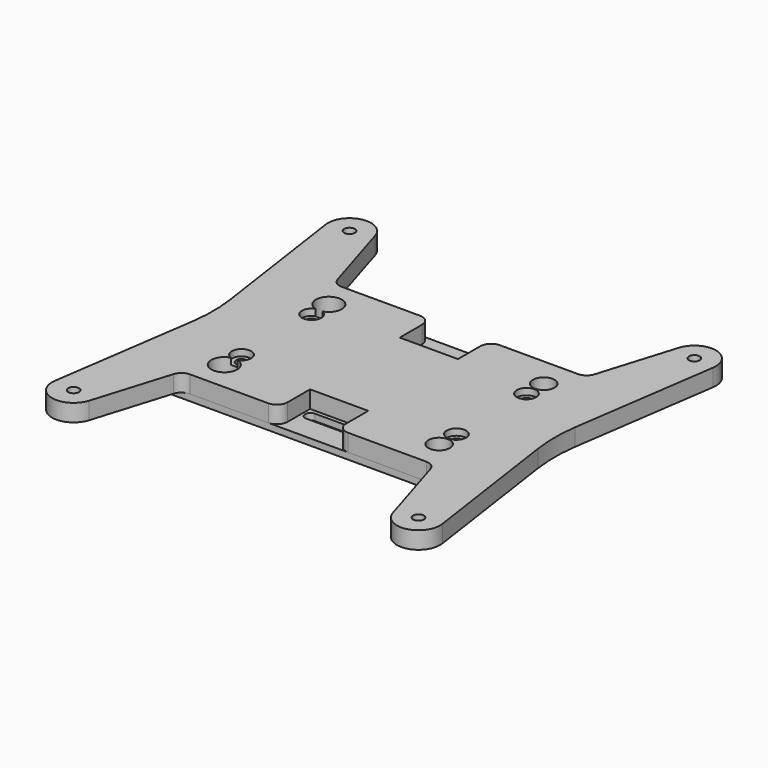
from build123d import *

# Parameters (mm, degrees)
F0_W     = 127.01
F0_H     = 88
F0_R     = 6
F0_R_2   = 2.5
F0_R_3   = 5
F1_DEPTH = 3
F2_R     = 2.5
F2_R_2   = 6
F2_R_3   = 5
F3_DEPTH = 8
F4_R     = 75
F5_R     = 5
F6_R     = 5
F7_R     = 4.5
F7_R_2   = 2.5
F8_DEPTH = 3


with BuildPart() as f1:
    # F0 (on Top) → F1 (new body)
    with BuildSketch(Plane.XY):
        with Locations((-29.180647, -13.047383)):
            Rectangle(F0_W, F0_H)
        with Locations((-79.025647, -43.367383)):
            Circle(F0_R, mode=Mode.SUBTRACT)
        with Locations((-79.025647, -33.367383)):
            Circle(F0_R_2, mode=Mode.SUBTRACT)
        with BuildLine():
            ThreePointArc((-39.022435, -45.867381), (-41.525647, -43.368989), (-39.025647, -40.867383))
            Line((-39.025647, -40.867383), (-19.325647, -40.867383))
            ThreePointArc((-19.325647, -40.867383), (-16.832098, -43.187909), (-18.967625, -45.841614))
            ThreePointArc((-18.967625, -45.841614), (-19.322435, -45.867381), (-19.67731, -45.842526))
            Line((-19.67731, -45.842526), (-39.022435, -45.867381))
        make_face(mode=Mode.SUBTRACT)
        with Locations((20.674353, -43.367383)):
            Circle(F0_R_3, mode=Mode.SUBTRACT)
        with Locations((20.674353, -33.367383)):
            Circle(F0_R_2, mode=Mode.SUBTRACT)
        with Locations((-79.025647, 7.282617)):
            Circle(F0_R_2, mode=Mode.SUBTRACT)
        with Locations((-79.025647, 17.282617)):
            Circle(F0_R, mode=Mode.SUBTRACT)
        with Locations((20.674353, 7.282617)):
            Circle(F0_R_2, mode=Mode.SUBTRACT)
        with BuildLine():
            ThreePointArc((-39.025647, 14.782617), (-41.525647, 17.282617), (-39.025647, 19.782617))
            Line((-39.025647, 19.782617), (-19.325647, 19.782617))
            ThreePointArc((-19.325647, 19.782617), (-16.825647, 17.282617), (-19.325647, 14.782617))
            Line((-19.325647, 14.782617), (-39.025647, 14.782617))
        make_face(mode=Mode.SUBTRACT)
        with Locations((20.674353, 17.282617)):
            Circle(F0_R_3, mode=Mode.SUBTRACT)
    extrude(amount=F1_DEPTH)


with BuildPart() as f3:
    # F2 (on face) → F3 (new body)
    with BuildSketch(Plane.XY.offset(3)):
        with BuildLine():
            Line((-92.685647, -57.047383), (-92.685647, 30.952617))
            Line((-92.685647, 30.952617), (-87.685647, 30.952617))
            Line((-87.685647, 30.952617), (-99.619784, 69.883471))
            ThreePointArc((-99.619784, 69.883471), (-111.369986, 76.710014), (-119.077159, 65.517676))
            Line((-119.077159, 65.517676), (-107.685647, -13.047383))
            Line((-107.685647, -13.047383), (-119.077159, -91.612442))
            ThreePointArc((-119.077159, -91.612442), (-111.369986, -102.80478), (-99.619784, -95.978237))
            Line((-99.619784, -95.978237), (-87.685647, -57.047383))
            Line((-87.685647, -57.047383), (-92.685647, -57.047383))
        make_face()
        with Locations((-109.180647, -93.047383)):
            Circle(F2_R, mode=Mode.SUBTRACT)
        with Locations((-109.180647, 66.952617)):
            Circle(F2_R, mode=Mode.SUBTRACT)
        with BuildLine():
            Line((-92.685647, -57.047383), (-92.685647, 30.952617))
            Line((-92.685647, 30.952617), (-87.685647, 30.952617))
            Line((-87.685647, 30.952617), (-99.619784, 69.883471))
            ThreePointArc((-99.619784, 69.883471), (-111.369986, 76.710014), (-119.077159, 65.517676))
            Line((-119.077159, 65.517676), (-107.685647, -13.047383))
            Line((-107.685647, -13.047383), (-119.077159, -91.612442))
            ThreePointArc((-119.077159, -91.612442), (-111.369986, -102.80478), (-99.619784, -95.978237))
            Line((-99.619784, -95.978237), (-87.685647, -57.047383))
            Line((-87.685647, -57.047383), (-92.685647, -57.047383))
        make_face()
        with Locations((-109.180647, -93.047383)):
            Circle(F2_R, mode=Mode.SUBTRACT)
        with Locations((-109.180647, 66.952617)):
            Circle(F2_R, mode=Mode.SUBTRACT)
        with BuildLine():
            Line((41.25849, 69.883471), (29.324353, 30.952617))
            Line((29.324353, 30.952617), (34.324353, 30.952617))
            Line((34.324353, 30.952617), (34.324353, -57.047383))
            Line((34.324353, -57.047383), (29.324353, -57.047383))
            Line((29.324353, -57.047383), (41.25849, -95.978237))
            ThreePointArc((41.25849, -95.978237), (53.008692, -102.80478), (60.715865, -91.612442))
            Line((60.715865, -91.612442), (49.324353, -13.047383))
            Line((49.324353, -13.047383), (60.715865, 65.517676))
            ThreePointArc((60.715865, 65.517676), (53.008692, 76.710014), (41.25849, 69.883471))
        make_face()
        with Locations((50.819353, -93.047383)):
            Circle(F2_R, mode=Mode.SUBTRACT)
        with Locations((50.819353, 66.952617)):
            Circle(F2_R, mode=Mode.SUBTRACT)
        with BuildLine():
            Line((41.25849, 69.883471), (29.324353, 30.952617))
            Line((29.324353, 30.952617), (34.324353, 30.952617))
            Line((34.324353, 30.952617), (34.324353, -57.047383))
            Line((34.324353, -57.047383), (29.324353, -57.047383))
            Line((29.324353, -57.047383), (41.25849, -95.978237))
            ThreePointArc((41.25849, -95.978237), (53.008692, -102.80478), (60.715865, -91.612442))
            Line((60.715865, -91.612442), (49.324353, -13.047383))
            Line((49.324353, -13.047383), (60.715865, 65.517676))
            ThreePointArc((60.715865, 65.517676), (53.008692, 76.710014), (41.25849, 69.883471))
        make_face()
        with Locations((50.819353, -93.047383)):
            Circle(F2_R, mode=Mode.SUBTRACT)
        with Locations((50.819353, 66.952617)):
            Circle(F2_R, mode=Mode.SUBTRACT)
        Polygon((-87.685647, 30.952617), (-92.685647, 30.952617), (-92.685647, -57.047383), (-87.685647, -57.047383), (-42.685647, -57.047383), (-42.685647, -39.047383), (-15.675647, -39.047383), (-15.675647, -57.047383), (29.324353, -57.047383), (34.324353, -57.047383), (34.324353, 30.952617), (29.324353, 30.952617), (-15.675647, 30.952617), (-15.675647, 12.952617), (-42.685647, 12.952617), (-42.685647, 30.952617), align=None)
        with Locations((-79.025647, -43.367383)):
            Circle(F2_R_2, mode=Mode.SUBTRACT)
        with Locations((-79.025647, -33.367383)):
            Circle(F2_R, mode=Mode.SUBTRACT)
        with Locations((20.674353, -43.367383)):
            Circle(F2_R_3, mode=Mode.SUBTRACT)
        with Locations((20.674353, -33.367383)):
            Circle(F2_R, mode=Mode.SUBTRACT)
        with Locations((-79.025647, 7.282617)):
            Circle(F2_R, mode=Mode.SUBTRACT)
        with Locations((-79.025647, 17.282617)):
            Circle(F2_R_2, mode=Mode.SUBTRACT)
        with Locations((20.674353, 7.282617)):
            Circle(F2_R, mode=Mode.SUBTRACT)
        with Locations((20.674353, 17.282617)):
            Circle(F2_R_3, mode=Mode.SUBTRACT)
    extrude(amount=F3_DEPTH)

    # F4
    f4_edges = [f3.edges().sort_by_distance(p)[0] for p in [
        (-107.685647, -13.047383, 7),
        (49.324353, -13.047383, 7),
    ]]
    fillet(f4_edges, radius=F4_R)

    # F5
    f5_edges = [f3.edges().sort_by_distance(p)[0] for p in [
        (29.324353, -57.047383, 7),
        (-87.685647, 30.952617, 7),
        (29.324353, 30.952617, 7),
        (-87.685647, -57.047383, 7),
    ]]
    fillet(f5_edges, radius=F5_R)

    # F6
    f6_edges = [f3.edges().sort_by_distance(p)[0] for p in [
        (-42.685647, -57.047383, 7),
        (-15.675647, -57.047383, 7),
        (-42.685647, 30.952617, 7),
        (-15.675647, 30.952617, 7),
    ]]
    fillet(f6_edges, radius=F6_R)

    # F7 (on face) → F8 (cut)
    with BuildSketch(Plane.XY.offset(11)):
        with Locations((20.674353, 7.282617)):
            Circle(F7_R)
        with Locations((20.674353, 7.282617)):
            Circle(F7_R_2, mode=Mode.SUBTRACT)
        with Locations((20.674353, -33.367383)):
            Circle(F7_R)
        with Locations((20.674353, -33.367383)):
            Circle(F7_R_2, mode=Mode.SUBTRACT)
        with BuildLine():
            ThreePointArc((-77.442977, -37.579883), (-75.326187, -35.929412), (-74.525647, -33.367383))
            ThreePointArc((-74.525647, -33.367383), (-81.587676, -29.667922), (-80.608317, -37.579883))
            ThreePointArc((-80.608317, -37.579883), (-79.025647, -37.367383), (-77.442977, -37.579883))
        make_face()
        with Locations((-79.025647, -33.367383)):
            Circle(F7_R_2, mode=Mode.SUBTRACT)
        with BuildLine():
            ThreePointArc((-80.608317, 11.495117), (-81.587676, 3.583157), (-74.525647, 7.282617))
            ThreePointArc((-74.525647, 7.282617), (-75.326187, 9.844646), (-77.442977, 11.495117))
            ThreePointArc((-77.442977, 11.495117), (-79.025647, 11.282617), (-80.608317, 11.495117))
        make_face()
        with Locations((-79.025647, 7.282617)):
            Circle(F7_R_2, mode=Mode.SUBTRACT)
    extrude(amount=-F8_DEPTH, mode=Mode.SUBTRACT)


solid = Compound([f1.part, f3.part])
